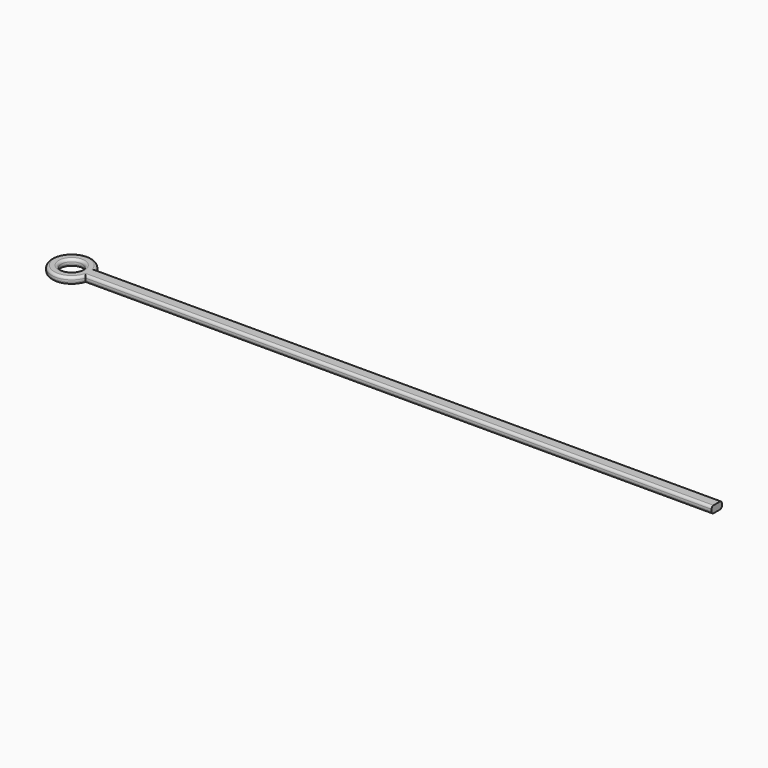
from build123d import *

# Parameters (mm, degrees)
F0_R     = 2.1
F1_DEPTH = 0.7
F2_DEPTH = 0.7
F3_R     = 0.5


with BuildPart() as f1:
    # F0 (on Top) → F1 (new body, symmetric)
    with BuildSketch(Plane.XY):
        with BuildLine():
            ThreePointArc((-112.043822, -1.3), (-111.881337, -0.659005), (-111.826678, 0))
            ThreePointArc((-111.826678, 0), (-111.881337, 0.659005), (-112.043822, 1.3))
            ThreePointArc((-112.043822, 1.3), (-119.826678, 0), (-112.043822, -1.3))
        make_face()
        with Locations((-115.826678, 0)):
            Circle(F0_R, mode=Mode.SUBTRACT)
    extrude(amount=F1_DEPTH, both=True)

    # F0 (on Top) → F2 (join, symmetric)
    with BuildSketch(Plane.XY):
        with BuildLine():
            ThreePointArc((-112.043822, 1.3), (-111.881337, 0.659005), (-111.826678, 0))
            ThreePointArc((-111.826678, 0), (-111.881337, -0.659005), (-112.043822, -1.3))
            Line((-112.043822, -1.3), (12.956178, -1.3))
            Line((12.956178, -1.3), (12.956178, 0))
            Line((12.956178, 0), (12.956178, 1.3))
            Line((12.956178, 1.3), (-112.043822, 1.3))
        make_face()
    extrude(amount=F2_DEPTH, both=True)

    # F3
    f3_edges = [f1.edges().sort_by_distance(p)[0] for p in [
        (-117.926678, 0, 0.7),
        (-117.926678, 0, -0.7),
        (-119.826678, 0, -0.7),
        (-119.826678, 0, 0.7),
        (-49.543822, 1.3, 0.7),
        (-49.543822, -1.3, 0.7),
        (-49.543822, 1.3, -0.7),
        (-49.543822, -1.3, -0.7),
    ]]
    fillet(f3_edges, radius=F3_R)


solid = f1.part
